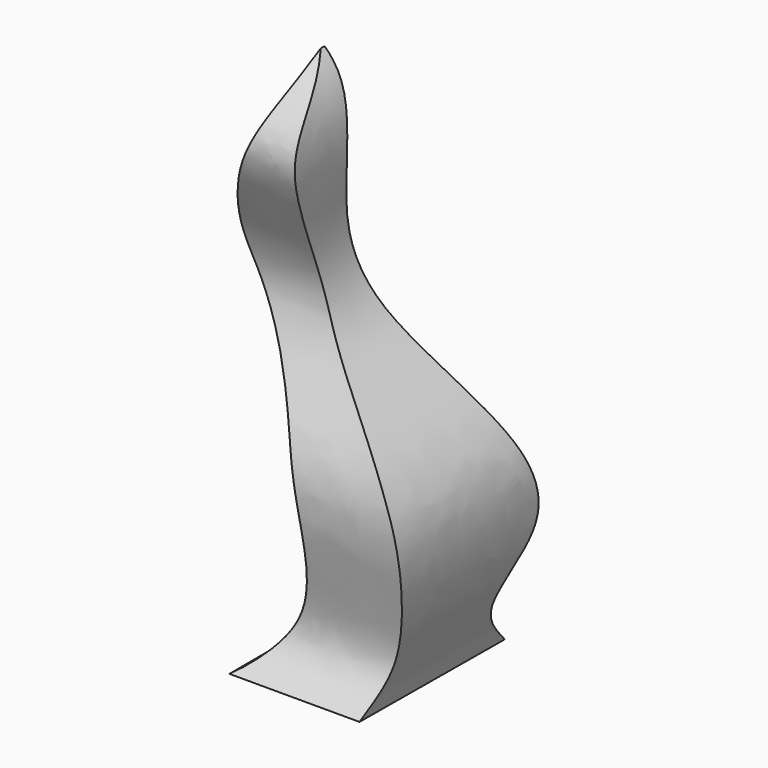
from build123d import *

# Parameters (mm, degrees)
F1_DEPTH = 300
F3_DEPTH = 300


with BuildPart() as f1:
    # F0 (on Front) → F1 (new body)
    with BuildSketch(Plane.XZ):
        with BuildLine():
            add(Edge.make_bspline(
                [(-71.381678478, 124.9983774965), (-52.9159800922, 104.6459990671), (-67.5666907194, 57.2473289441), (-63.2179210278, 4.6478680356), (13.0352562443, -39.6819657667), (-12.7363573606, -104.2120680429), (-17.6666360348, -130.0067454576)],
                knots=[0, 0, 0, 0, 0.2504596081, 0.462676718, 0.7208754202, 1, 1, 1, 1], degree=3))
            add(Edge.make_bspline(
                [(-71.381678478, 124.9983774965), (-77.1377570941, 91.4764116384), (-121.6420824381, 39.2135856684), (-53.7538587346, -17.4751882007), (-47.6620667491, -96.3903607677), (-71.3149630358, -123.2218849961), (-82.9998627305, -130.0067454576)],
                knots=[0, 0, 0, 0, 0.2850483981, 0.5409053313, 0.7995415562, 1, 1, 1, 1], degree=3))
            Line((-82.9998627305, -130.0067454576), (-17.6666360348, -130.0067454576))
        make_face()
    extrude(amount=F1_DEPTH)


with BuildPart() as f3:
    # F2 (on Right) → F3 (new body)
    with BuildSketch(Plane.YZ):
        with BuildLine():
            add(Edge.make_bspline(
                [(-176.3330250978, 126.6595125198), (-174.4260347463, 112.7956409324), (-183.3297180282, 88.2753718429), (-153.1878765958, -16.813510452), (-115.5141813299, -77.7964236526), (-157.6560563565, -105.8991624297), (-141.2245518147, -121.6340748486), (-133.6664408445, -129.3400526047)],
                knots=[0, 0, 0, 0, 0.1746154657, 0.4671248058, 0.693067828, 0.8550685517, 1, 1, 1, 1], degree=3))
            add(Edge.make_bspline(
                [(-176.3330250978, 126.6595125198), (-195.9073662544, 111.1851294797), (-226.2016049983, 92.8971211366), (-165.3910217282, 20.1108968081), (-231.4319960828, -34.0055946887), (-196.3421773627, -109.348883484), (-215.9114923035, -123.2188874387), (-222.3329544067, -128.6734044552)],
                knots=[0, 0, 0, 0, 0.1922378681, 0.4145182382, 0.6385044789, 0.8629321025, 1, 1, 1, 1], degree=3))
            Line((-222.3329544067, -128.6734044552), (-133.6664408445, -129.3400526047))
        make_face()
    extrude(amount=F3_DEPTH)


with BuildPart() as f3_1:
    # F4: moved
    add(f3.part.moved(Location((-228, 0, 0))))

    # F5: intersect F1
    add(f1.part, mode=Mode.INTERSECT)


solid = f3_1.part
